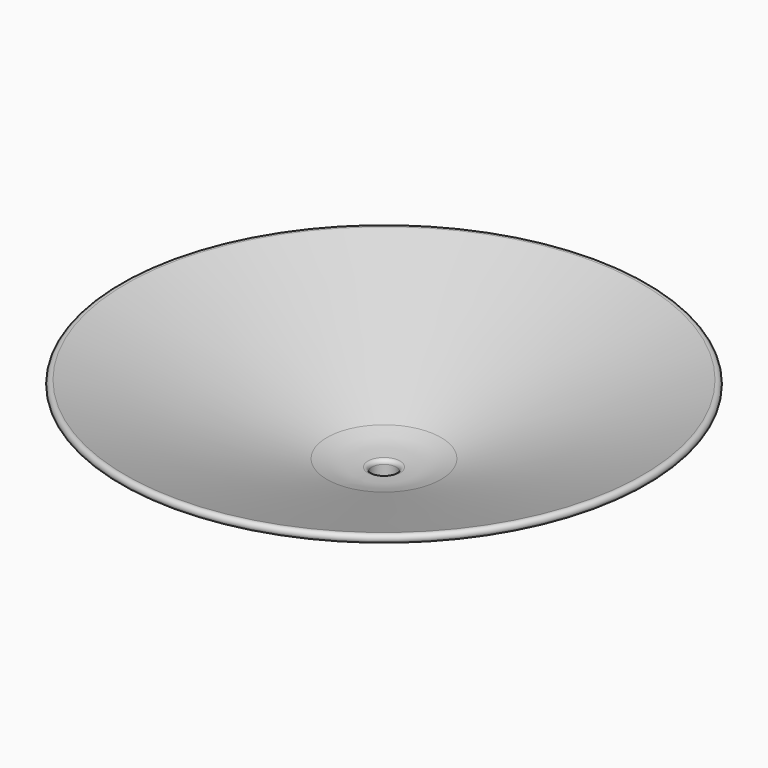
from build123d import *


with BuildPart() as f1:
    # F0 (on Right) → F1 (revolve)
    with BuildSketch(Plane.YZ):
        with BuildLine():
            ThreePointArc((-63.855851, 28), (-65.126902, 27.379975), (-64.506877, 26.108925))
            Line((-64.506877, 26.108925), (-12.372435, 8.161002))
            ThreePointArc((-12.372435, 8.161002), (-9.929507, 6.336948), (-9, 3.433314))
            Line((-9, 3.433314), (-9, 1))
            ThreePointArc((-9, 1), (-8.707107, 0.292893), (-8, 0))
            Line((-8, 0), (-4, 0))
            ThreePointArc((-4, 0), (-3.292893, 0.292893), (-3, 1))
            Line((-3, 1), (-3, 7.049625))
            Line((-3, 7.049625), (-3, 8.015702))
            ThreePointArc((-3, 8.015702), (-3.282395, 8.712152), (-3.970085, 9.015254))
            ThreePointArc((-3.970085, 9.015254), (-9.090427, 9.556574), (-14.071315, 10.861061))
            Line((-14.071315, 10.861061), (-63.855851, 28))
        make_face()
    revolve(axis=Axis((0, 0, 14), (0, 0, -1)))


solid = f1.part
